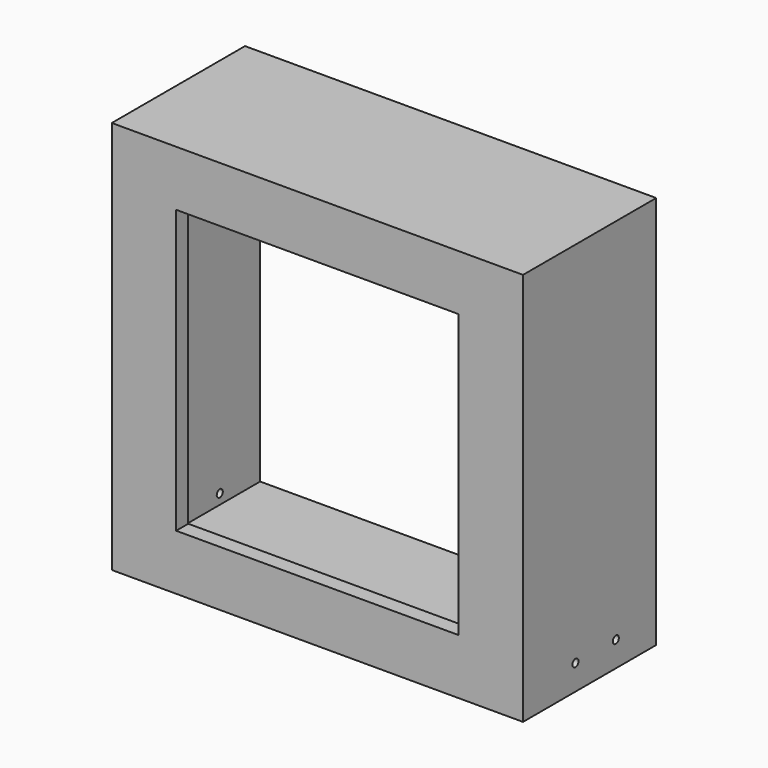
from build123d import *

# Parameters (mm, degrees)
F0_W     = 81.5
F0_H     = 78
F0_W_2   = 75.5
F0_H_2   = 72
F1_DEPTH = 33
F2_W     = 81.5
F2_H     = 78
F2_W_2   = 56
F2_H_2   = 56
F3_DEPTH = 3
F4_R     = 0.75
F5_DEPTH = 111.5


with BuildPart() as f1:
    # F0 (on Front) → F1 (new body)
    with BuildSketch(Plane.XZ):
        Rectangle(F0_W, F0_H)
        Rectangle(F0_W_2, F0_H_2, mode=Mode.SUBTRACT)
    extrude(amount=F1_DEPTH)

    # F2 (on face) → F3 (join)
    with BuildSketch(Plane.XZ.offset(33)):
        Rectangle(F2_W, F2_H)
        Rectangle(F2_W_2, F2_H_2, mode=Mode.SUBTRACT)
    extrude(amount=-F3_DEPTH)

    # F4 (on face) → F5 (cut)
    with BuildSketch(Plane.YZ.offset(40.75)):
        with Locations((-10, -34)):
            Circle(F4_R)
        with Locations((-20, -34)):
            Circle(F4_R)
    extrude(amount=-F5_DEPTH, mode=Mode.SUBTRACT)


solid = f1.part
